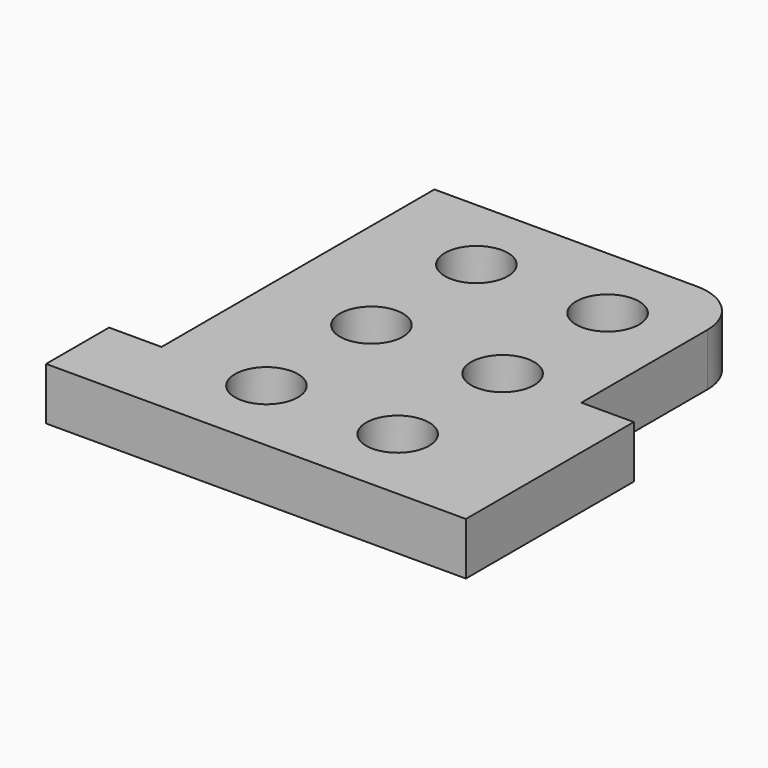
from build123d import *

# Parameters (mm, degrees)
F0_R     = 6
F1_DEPTH = 10


with BuildPart() as f1:
    # F0 (on Top) → F1 (new body)
    with BuildSketch(Plane.XY):
        with BuildLine():
            Line((0, 15), (0, 0))
            Line((0, 0), (80, 0))
            Line((80, 0), (80, 40))
            Line((80, 40), (70, 40))
            Line((70, 40), (70, 70))
            ThreePointArc((70, 70), (67.071068, 77.071068), (60, 80))
            Line((60, 80), (10, 80))
            Line((10, 80), (10, 15))
            Line((10, 15), (0, 15))
        make_face()
        with Locations((30, 15)):
            Circle(F0_R, mode=Mode.SUBTRACT)
        with Locations((55, 15)):
            Circle(F0_R, mode=Mode.SUBTRACT)
        with Locations((30, 40)):
            Circle(F0_R, mode=Mode.SUBTRACT)
        with Locations((30, 65)):
            Circle(F0_R, mode=Mode.SUBTRACT)
        with Locations((55, 40)):
            Circle(F0_R, mode=Mode.SUBTRACT)
        with Locations((55, 65)):
            Circle(F0_R, mode=Mode.SUBTRACT)
    extrude(amount=F1_DEPTH)


solid = f1.part
